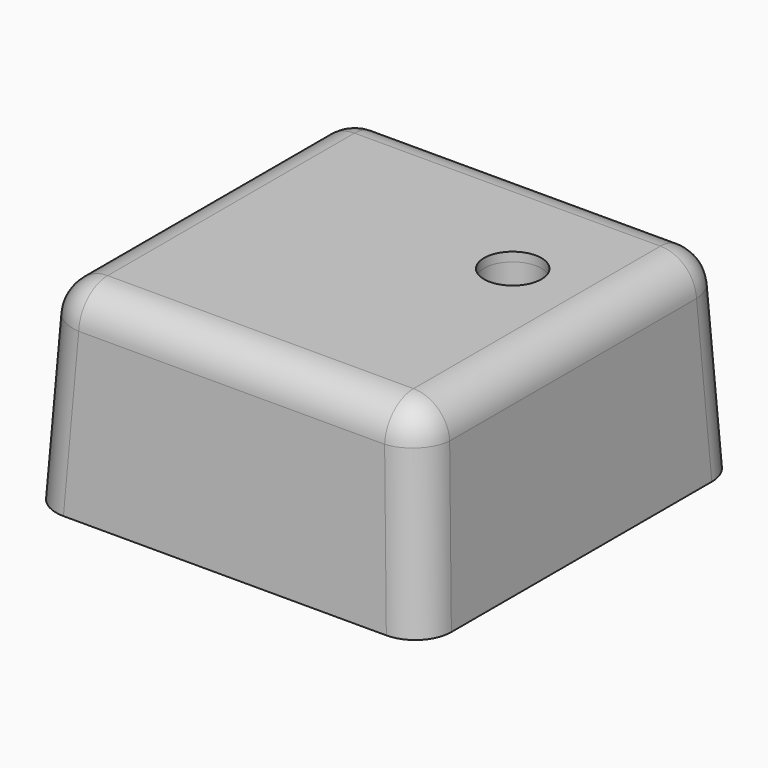
from build123d import *

# Parameters (mm, degrees)
F0_W     = 110.9530478716
F0_H     = 111.6942763329
F1_DEPTH = 55.1221389323
F1_TAPER = 3
F2_R     = 10.16
F3_T     = -2.54
F4_R     = 11.5246315094
F4_R_2   = 8.0655463765
F5_DEPTH = 25.4
F6_DEPTH = 25.4


with BuildPart() as f1:
    # F0 (on Top) → F1 (new body)
    with BuildSketch(Plane.XY):
        Rectangle(F0_W, F0_H)
    extrude(amount=F1_DEPTH, taper=F1_TAPER)

    # F2
    f2_edges = [f1.edges().sort_by_distance(p)[0] for p in [
        (54.032109, -54.402724, 27.561069),
        (52.587695, 0, 55.122139),
        (0, -52.958309, 55.122139),
        (54.032109, 54.402724, 27.561069),
        (0, 52.958309, 55.122139),
        (-54.032109, 54.402724, 27.561069),
        (-52.587695, 0, 55.122139),
        (-54.032109, -54.402724, 27.561069),
    ]]
    fillet(f2_edges, radius=F2_R)

    # F3
    f3_openings = [f1.faces().sort_by_distance(p)[0] for p in [
        (0, 0, 0),
    ]]
    offset(amount=F3_T, openings=f3_openings)

    # F4 (on face) → F5 (join)
    with BuildSketch(Plane(origin=(0, 0, 52.5821389323), x_dir=(1, 0, 0), z_dir=(0, 0, -1))):
        with Locations((24.3312865496, -14.7694125772)):
            Circle(F4_R)
        with Locations((24.3312865496, -14.7694125772)):
            Circle(F4_R_2, mode=Mode.SUBTRACT)
    extrude(amount=F5_DEPTH)

    # F6 (cut): a face of the model
    f6_faces = [f1.faces().sort_by_distance(p)[0] for p in [
        (24.3312865496, 14.7694125772, 52.5821389323),
    ]]
    extrude(f6_faces, amount=-F6_DEPTH, mode=Mode.SUBTRACT)


solid = f1.part
